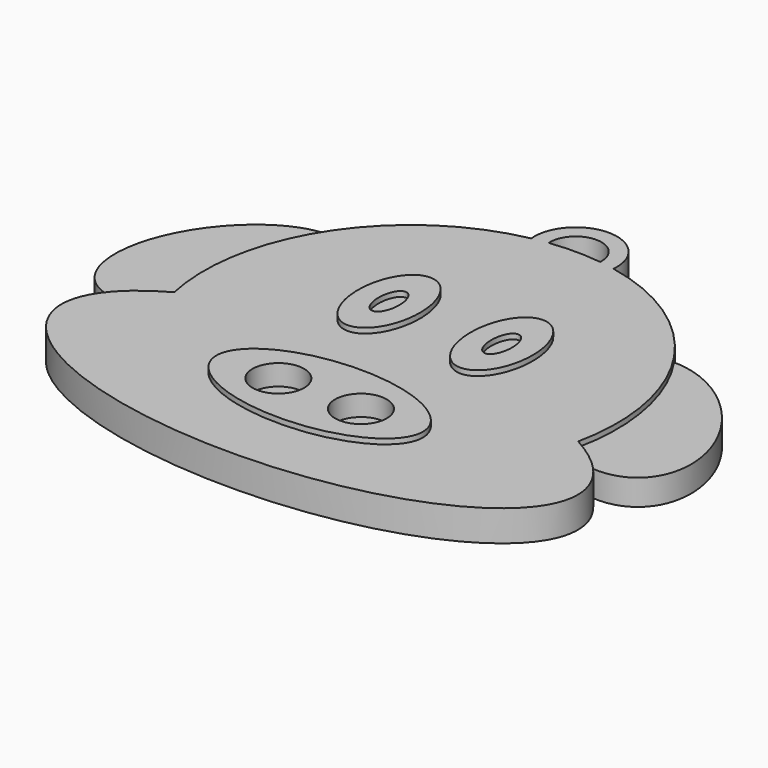
from build123d import *

# Parameters (mm, degrees)
F2_DEPTH  = 3
F3_DEPTH  = 3.5
F4_DEPTH  = 2.5
F6_DEPTH  = 3.5
F7_DEPTH  = 1
F8_R      = 2.5
F9_DEPTH  = 2
F11_DEPTH = 3


with BuildPart() as f2:
    # F0 (on Top) → F2 (new body)
    with BuildSketch(Plane.XY):
        with BuildLine():
            ThreePointArc((-16.5514327476, 22.2272024121), (-19.6269067874, 14.845065664), (-19.5643091096, 6.8481559441))
            add(Edge.make_bspline(
                [(-19.5643091096, 6.8481559441), (-21.8645069568, 5.5759382833), (-23.23, 4.0653499923)],
                knots=[5.6111760506, 5.6111760506, 5.6111760506, 5.9046312652, 5.9046312652, 5.9046312652], degree=2, weights=[1, 0.9892548032, 1]))
            add(Edge.make_bspline(
                [(-23.23, 4.0653499923), (-37.3986969508, -11.6088914976), (0.9132892277, -10.992657494), (39.2252754062, -10.3764234903), (22.4933852711, 4.8007935852)],
                knots=[5.9046312652, 5.9046312652, 5.9046312652, 7.8905213335, 7.8905213335, 9.8764114018, 9.8764114018, 9.8764114018], degree=2, weights=[1, 0.5462253596, 1, 0.5462253596, 1]))
            add(Edge.make_bspline(
                [(22.4933852711, 4.8007935852), (21.2862472359, 5.8957682624), (19.5643091096, 6.8481559441)],
                knots=[3.5932260947, 3.5932260947, 3.5932260947, 3.8136019101, 3.8136019101, 3.8136019101], degree=2, weights=[1, 0.9939354522, 1]))
            ThreePointArc((19.5643091096, 6.8481559441), (19.6269067874, 14.845065664), (16.5514327476, 22.2272024121))
            ThreePointArc((16.5514327476, 22.2272024121), (0, 31), (-16.5514327476, 22.2272024121))
        make_face()
        with BuildLine():
            add(Edge.make_bspline(
                [(-10, 0), (-10, -8.6602540378), (5, -4.3301270189), (20, 0), (5, 4.3301270189), (-10, 8.6602540378), (-10, 0)],
                knots=[0, 0, 0, 2.0943951024, 2.0943951024, 4.1887902048, 4.1887902048, 6.2831853072, 6.2831853072, 6.2831853072], degree=2, weights=[1, 0.5, 1, 0.5, 1, 0.5, 1]))
        make_face(mode=Mode.SUBTRACT)
    extrude(amount=F2_DEPTH)

    # F1 (on Top) → F3 (join)
    with BuildSketch(Plane.XY):
        with BuildLine():
            add(Edge.make_bspline(
                [(5.653910271, 19.9677419355), (0.4577578483, 19.9677419355), (3.0558340597, 12.4677419355), (5.653910271, 4.9677419355), (8.2519864824, 12.4677419355), (10.8500626937, 19.9677419355), (5.653910271, 19.9677419355)],
                knots=[0, 0, 0, 2.0943951024, 2.0943951024, 4.1887902048, 4.1887902048, 6.2831853072, 6.2831853072, 6.2831853072], degree=2, weights=[1, 0.5, 1, 0.5, 1, 0.5, 1]))
        make_face()
        with BuildLine():
            add(Edge.make_bspline(
                [(5.653910271, 16.9677419355), (3.9218594635, 16.9677419355), (4.7878848672, 13.9677419355), (5.653910271, 10.9677419355), (6.5199356748, 13.9677419355), (7.3859610786, 16.9677419355), (5.653910271, 16.9677419355)],
                knots=[0, 0, 0, 2.0943951024, 2.0943951024, 4.1887902048, 4.1887902048, 6.2831853072, 6.2831853072, 6.2831853072], degree=2, weights=[1, 0.5, 1, 0.5, 1, 0.5, 1]))
        make_face(mode=Mode.SUBTRACT)
        with BuildLine():
            add(Edge.make_bspline(
                [(-5.346089729, 20.0804285287), (-10.5422421517, 20.0804285287), (-7.9441659403, 12.5804285287), (-5.346089729, 5.0804285287), (-2.7480135176, 12.5804285287), (-0.1499373063, 20.0804285287), (-5.346089729, 20.0804285287)],
                knots=[0, 0, 0, 2.0943951024, 2.0943951024, 4.1887902048, 4.1887902048, 6.2831853072, 6.2831853072, 6.2831853072], degree=2, weights=[1, 0.5, 1, 0.5, 1, 0.5, 1]))
        make_face()
        with BuildLine():
            add(Edge.make_bspline(
                [(-5.346089729, 17.0804285287), (-7.0781405365, 17.0804285287), (-6.2121151328, 14.0804285287), (-5.346089729, 11.0804285287), (-4.4800643252, 14.0804285287), (-3.6140389214, 17.0804285287), (-5.346089729, 17.0804285287)],
                knots=[0, 0, 0, 2.0943951024, 2.0943951024, 4.1887902048, 4.1887902048, 6.2831853072, 6.2831853072, 6.2831853072], degree=2, weights=[1, 0.5, 1, 0.5, 1, 0.5, 1]))
        make_face(mode=Mode.SUBTRACT)
    extrude(amount=F3_DEPTH)

    # F0 (on Top) → F4 (join)
    with BuildSketch(Plane.XY):
        with BuildLine():
            add(Edge.make_bspline(
                [(22.4933852711, 4.8007935852), (21.2862472359, 5.8957682624), (19.5643091096, 6.8481559441)],
                knots=[3.5932260947, 3.5932260947, 3.5932260947, 3.8136019101, 3.8136019101, 3.8136019101], degree=2, weights=[1, 0.9939354522, 1]))
            add(Edge.make_bspline(
                [(22.4933852711, 4.8007935852), (30.5114588738, 4.0708712152), (27.4089635962, 13.1697912888), (24.3064683185, 22.2687113623), (16.5514327476, 22.2272024121)],
                knots=[2.5624257149, 2.5624257149, 2.5624257149, 4.1756261153, 4.1756261153, 5.7888265158, 5.7888265158, 5.7888265158], degree=2, weights=[1, 0.6919568747, 1, 0.6919568747, 1]))
            ThreePointArc((16.5514327476, 22.2272024121), (19.6269067874, 14.845065664), (19.5643091096, 6.8481559441))
        make_face()
        with BuildLine():
            add(Edge.make_bspline(
                [(-19.5643091096, 6.8481559441), (-21.8645069568, 5.5759382833), (-23.23, 4.0653499923)],
                knots=[5.6111760506, 5.6111760506, 5.6111760506, 5.9046312652, 5.9046312652, 5.9046312652], degree=2, weights=[1, 0.9892548032, 1]))
            ThreePointArc((-19.5643091096, 6.8481559441), (-19.6269067874, 14.845065664), (-16.5514327476, 22.2272024121))
            add(Edge.make_bspline(
                [(-16.5514327476, 22.2272024121), (-23.4995108928, 22.7804351501), (-26.8358386071, 13.7075473165), (-30.1721663213, 4.6346594829), (-23.23, 4.0653499923)],
                knots=[0.3398741253, 0.3398741253, 0.3398741253, 1.9097844743, 1.9097844743, 3.4796948232, 3.4796948232, 3.4796948232], degree=2, weights=[1, 0.7074199523, 1, 0.7074199523, 1]))
        make_face()
    extrude(amount=F4_DEPTH)

    # F5 (on Top) → F6 (join)
    with BuildSketch(Plane.XY):
        with BuildLine():
            add(Edge.make_bspline(
                [(-10, 0), (-10, -8.6602540378), (5, -4.3301270189), (20, 0), (5, 4.3301270189), (-10, 8.6602540378), (-10, 0)],
                knots=[0, 0, 0, 2.0943951024, 2.0943951024, 4.1887902048, 4.1887902048, 6.2831853072, 6.2831853072, 6.2831853072], degree=2, weights=[1, 0.5, 1, 0.5, 1, 0.5, 1]))
        make_face()
    extrude(amount=F6_DEPTH)

    # F1 (on Top) → F7 (join)
    with BuildSketch(Plane.XY):
        with BuildLine():
            add(Edge.make_bspline(
                [(5.653910271, 19.9677419355), (0.4577578483, 19.9677419355), (3.0558340597, 12.4677419355), (5.653910271, 4.9677419355), (8.2519864824, 12.4677419355), (10.8500626937, 19.9677419355), (5.653910271, 19.9677419355)],
                knots=[0, 0, 0, 2.0943951024, 2.0943951024, 4.1887902048, 4.1887902048, 6.2831853072, 6.2831853072, 6.2831853072], degree=2, weights=[1, 0.5, 1, 0.5, 1, 0.5, 1]))
        make_face()
        with BuildLine():
            add(Edge.make_bspline(
                [(5.653910271, 16.9677419355), (3.9218594635, 16.9677419355), (4.7878848672, 13.9677419355), (5.653910271, 10.9677419355), (6.5199356748, 13.9677419355), (7.3859610786, 16.9677419355), (5.653910271, 16.9677419355)],
                knots=[0, 0, 0, 2.0943951024, 2.0943951024, 4.1887902048, 4.1887902048, 6.2831853072, 6.2831853072, 6.2831853072], degree=2, weights=[1, 0.5, 1, 0.5, 1, 0.5, 1]))
        make_face(mode=Mode.SUBTRACT)
        with BuildLine():
            add(Edge.make_bspline(
                [(-5.346089729, 20.0804285287), (-10.5422421517, 20.0804285287), (-7.9441659403, 12.5804285287), (-5.346089729, 5.0804285287), (-2.7480135176, 12.5804285287), (-0.1499373063, 20.0804285287), (-5.346089729, 20.0804285287)],
                knots=[0, 0, 0, 2.0943951024, 2.0943951024, 4.1887902048, 4.1887902048, 6.2831853072, 6.2831853072, 6.2831853072], degree=2, weights=[1, 0.5, 1, 0.5, 1, 0.5, 1]))
        make_face()
        with BuildLine():
            add(Edge.make_bspline(
                [(-5.346089729, 17.0804285287), (-7.0781405365, 17.0804285287), (-6.2121151328, 14.0804285287), (-5.346089729, 11.0804285287), (-4.4800643252, 14.0804285287), (-3.6140389214, 17.0804285287), (-5.346089729, 17.0804285287)],
                knots=[0, 0, 0, 2.0943951024, 2.0943951024, 4.1887902048, 4.1887902048, 6.2831853072, 6.2831853072, 6.2831853072], degree=2, weights=[1, 0.5, 1, 0.5, 1, 0.5, 1]))
        make_face(mode=Mode.SUBTRACT)
    extrude(amount=F7_DEPTH)

    # F8 (on face) → F9 (cut)
    with BuildSketch(Plane.XY.offset(3.5)):
        with Locations((-4, 0)):
            Circle(F8_R)
        with Locations((4, 0)):
            Circle(F8_R)
    extrude(amount=-F9_DEPTH, mode=Mode.SUBTRACT)

    # F10 (on face) → F11 (join)
    with BuildSketch(Plane.XY.offset(3)):
        with BuildLine():
            ThreePointArc((-2.4951124098, 30.84375), (0, 33.5), (2.4951124098, 30.84375))
            ThreePointArc((2.4951124098, 30.84375), (3.2398242242, 30.7358440153), (3.9799497484, 30.6))
            ThreePointArc((3.9799497484, 30.6), (0, 35), (-3.9799497484, 30.6))
            ThreePointArc((-3.9799497484, 30.6), (-3.2398242242, 30.7358440153), (-2.4951124098, 30.84375))
        make_face()
    extrude(amount=-F11_DEPTH)


solid = f2.part
